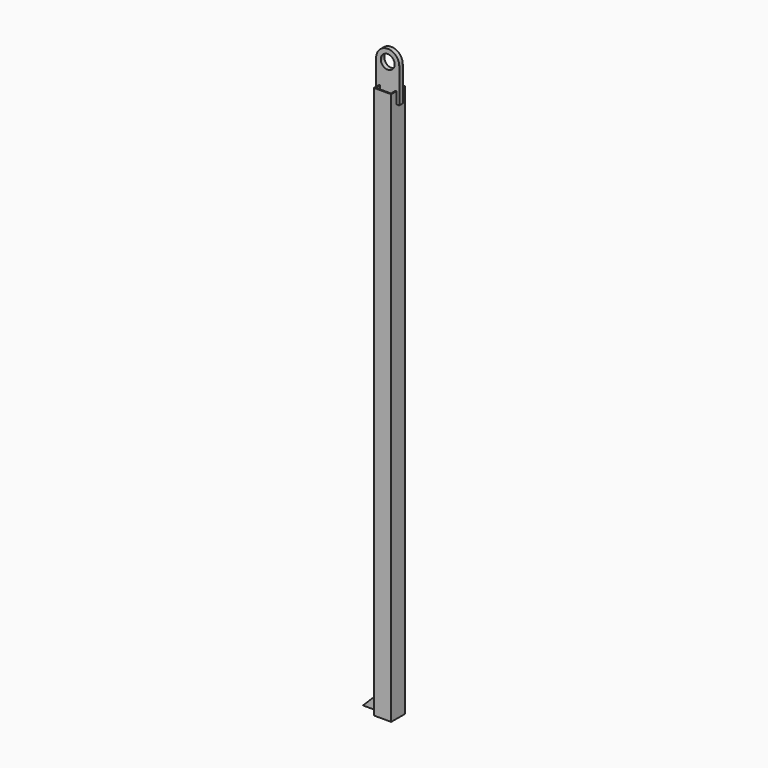
from build123d import *

# Parameters (mm, degrees)
F0_W     = 75
F0_H     = 75
F0_W_2   = 66
F0_H_2   = 66
F1_DEPTH = 2394
F2_R     = 30
F3_DEPTH = 9.5
F5_DEPTH = 3


with BuildPart() as f1:
    # F0 (on Top) → F1 (new body)
    with BuildSketch(Plane.XY):
        Rectangle(F0_W, F0_H)
        Rectangle(F0_W_2, F0_H_2, mode=Mode.SUBTRACT)
    extrude(amount=F1_DEPTH)

    # F2 (on Front) → F3 (join, symmetric)
    with BuildSketch(Plane.XZ):
        with BuildLine():
            Line((-50, 2494), (-50, 2344))
            Line((-50, 2344), (50, 2344))
            Line((50, 2344), (50, 2494))
            ThreePointArc((50, 2494), (0, 2544), (-50, 2494))
        make_face()
        with Locations((0, 2494)):
            Circle(F2_R, mode=Mode.SUBTRACT)
    extrude(amount=F3_DEPTH, both=True)

    # F4 (on Front) → F5 (join, symmetric)
    with BuildSketch(Plane.XZ):
        Polygon((-112.5, 0), (-37.5, 0), (-37.5, 75), align=None)
    extrude(amount=F5_DEPTH, both=True)


solid = f1.part
